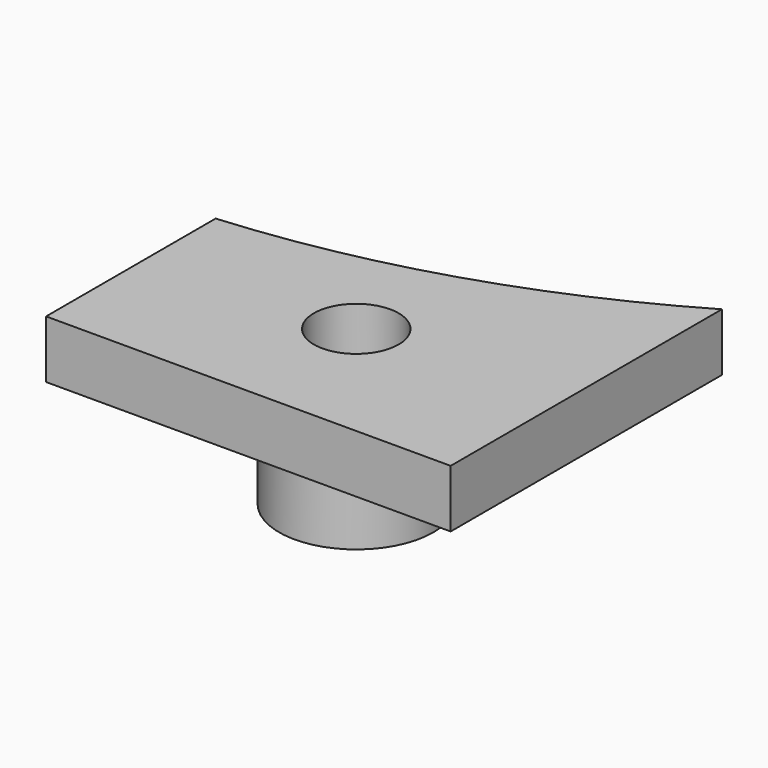
from build123d import *

# Parameters (mm, degrees)
CYLINDER002_R     = 2.2
CYLINDER002_DEPTH = 20
PAD002_DEPTH      = 3
CYLINDER003_R     = 4
CYLINDER003_DEPTH = 5


with BuildPart() as hole001:
    # Cylinder002 → Cylinder002 (new body)
    with BuildSketch(Plane.XY.offset(-10)):
        Circle(CYLINDER002_R)
    extrude(amount=CYLINDER002_DEPTH)


with BuildPart() as body002:
    # Sketch003 → Pad002 (new body)
    with BuildSketch(Plane.XY):
        with BuildLine():
            Line((-10.5, -4), (-10.5, 7))
            Line((-10.5, 7), (10.5, 7))
            Line((10.5, 7), (10.5, -10.6))
            ThreePointArc((10.5, -10.6), (0.372304, -6.115398), (-10.5, -4))
        make_face()
    extrude(amount=PAD002_DEPTH)


with BuildPart() as pad_cut:
    # Cylinder003 → Cylinder003 (new body)
    with BuildSketch(Plane.XY.offset(-5)):
        Circle(CYLINDER003_R)
    extrude(amount=CYLINDER003_DEPTH)

    # Fusion001: union Body002
    add(body002.part)

    # Cut001: cut hole001
    add(hole001.part, mode=Mode.SUBTRACT)


with BuildPart() as pad_cut_mirror:
    # Part__Mirroring: instance of pad cut
    add(pad_cut.part.mirror(Plane(origin=(0, -17, 0), x_dir=(1, 0, 0), z_dir=(0, 1, 0))))


solid = pad_cut_mirror.part
